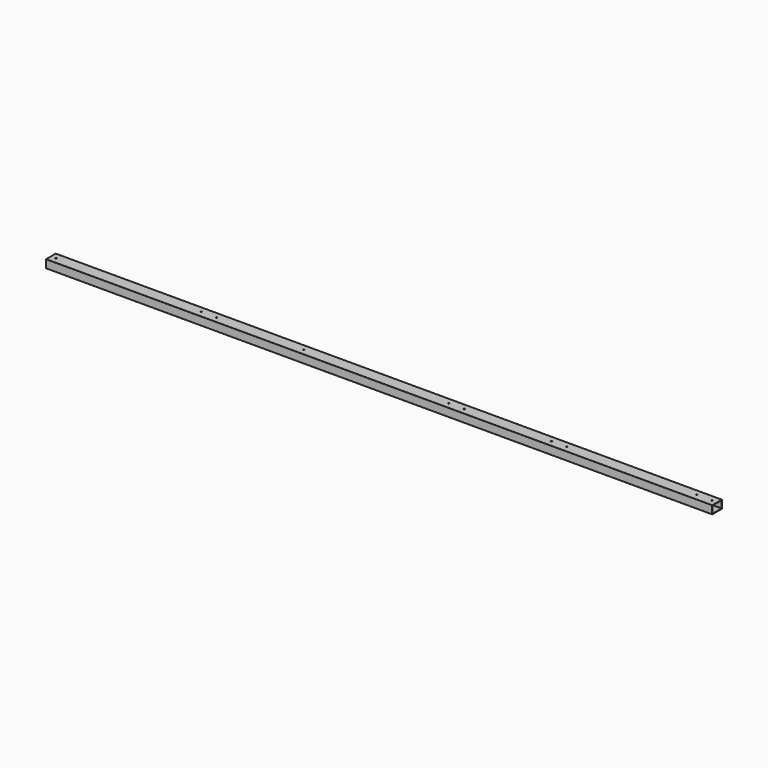
from build123d import *

# Parameters (mm, degrees)
F1_DEPTH   = 8331.2
F2_R       = 6.35
F3_DEPTH   = 101.601
F5_D       = 15.875
F5_ON_F2_D = 15.875


with BuildPart() as f1:
    # F0 (on Right) → F1 (new body)
    with BuildSketch(Plane.YZ):
        with BuildLine():
            Line((-92.9570702586, -51.9375825852), (56.2933297414, -51.9375825852))
            ThreePointArc((56.2933297414, -51.9375825852), (57.4068815005, -51.4763343442), (57.8681297414, -50.3627825852))
            Line((57.8681297414, -50.3627825852), (57.8681297414, 48.0876174148))
            ThreePointArc((57.8681297414, 48.0876174148), (57.4068815005, 49.2011691738), (56.2933297414, 49.6624174148))
            Line((56.2933297414, 49.6624174148), (-92.9570702586, 49.6624174148))
            ThreePointArc((-92.9570702586, 49.6624174148), (-94.0706220176, 49.2011691738), (-94.5318702586, 48.0876174148))
            Line((-94.5318702586, 48.0876174148), (-94.5318702586, -50.3627825852))
            ThreePointArc((-94.5318702586, -50.3627825852), (-94.0706220176, -51.4763343442), (-92.9570702586, -51.9375825852))
        make_face()
        with BuildLine():
            ThreePointArc((-88.1818702586, 41.7376174148), (-87.7206220176, 42.8511691738), (-86.6070702586, 43.3124174148))
            Line((-86.6070702586, 43.3124174148), (49.9433297414, 43.3124174148))
            ThreePointArc((49.9433297414, 43.3124174148), (51.0568815005, 42.8511691738), (51.5181297414, 41.7376174148))
            Line((51.5181297414, 41.7376174148), (51.5181297414, -44.0127825852))
            ThreePointArc((51.5181297414, -44.0127825852), (51.0568815005, -45.1263343442), (49.9433297414, -45.5875825852))
            Line((49.9433297414, -45.5875825852), (-86.6070702586, -45.5875825852))
            ThreePointArc((-86.6070702586, -45.5875825852), (-87.7206220176, -45.1263343442), (-88.1818702586, -44.0127825852))
            Line((-88.1818702586, -44.0127825852), (-88.1818702586, 41.7376174148))
        make_face(mode=Mode.SUBTRACT)
    extrude(amount=F1_DEPTH)

    # F2 (on face) → F3 (cut, through all)
    with BuildSketch(Plane(origin=(0, 0, -51.9375825852), x_dir=(1, 0, 0), z_dir=(0, 0, -1))):
        with Locations((8077.2, 18.3318702586)):
            Circle(F2_R)
        with Locations((6451.6, 18.3318702586)):
            Circle(F2_R)
        with Locations((1879.6, 18.3318702586)):
            Circle(F2_R)
    extrude(amount=-F3_DEPTH, mode=Mode.SUBTRACT)

    # F5 (through all)
    with Locations(Plane.XY.offset(49.6624174148)):
        with Locations((6261.1, -18.3318702586), (8267.7, -18.3318702586), (3162.3, -18.3318702586), (2070.1, -18.3318702586), (63.5, -18.3318702586), (5168.9, -18.3318702586)):
            Hole(F5_D / 2)

    # F5 on F2 (through all)
    with Locations(Plane(origin=(0, 0, -51.9375825852), x_dir=(1, 0, 0), z_dir=(0, 0, -1))):
        with Locations((4978.4, 18.3318702586)):
            Hole(F5_ON_F2_D / 2)


solid = f1.part
